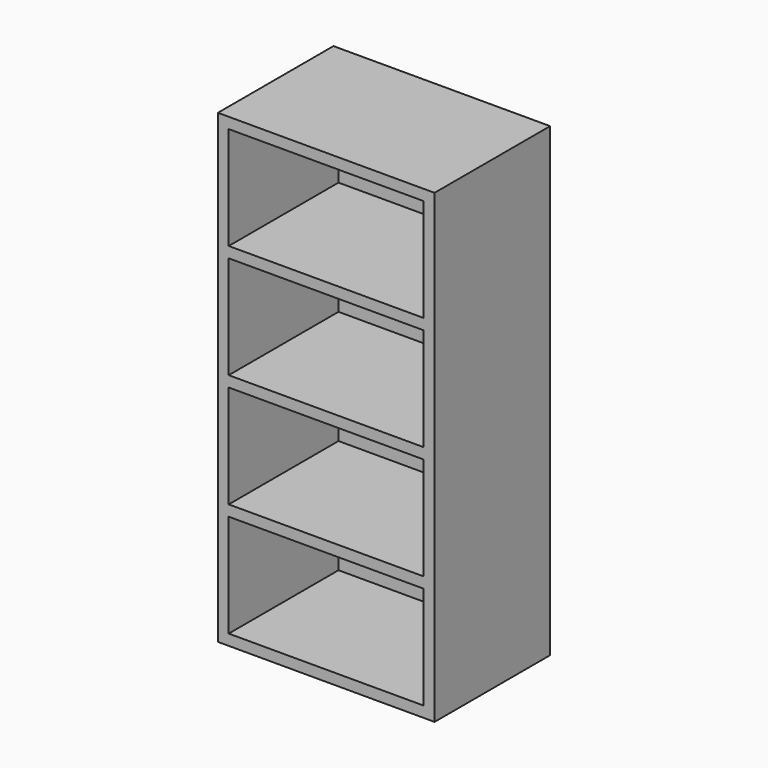
from build123d import *

# Parameters (mm, degrees)
F0_W     = 5.4
F0_H     = 0.3
F1_DEPTH = 4
F0_H_2   = 2.85
F2_DEPTH = 0.2


with BuildPart() as f1:
    # F0 (on Front) → F1 (new body)
    with BuildSketch(Plane.XZ):
        Polygon((-3, 12.9), (-3, 0), (-2.7, 0), (-2.7, 0.3), (-2.7, 3.15), (-2.7, 3.45), (-2.7, 6.3), (-2.7, 6.6), (-2.7, 9.45), (-2.7, 9.75), (-2.7, 12.6), (-2.7, 12.9), align=None)
        Polygon((2.7, 0.3), (2.7, 0), (3, 0), (3, 12.9), (2.7, 12.9), (2.7, 12.6), (2.7, 9.75), (2.7, 9.45), (2.7, 6.6), (2.7, 6.3), (2.7, 3.45), (2.7, 3.15), align=None)
        with Locations((0, 12.75)):
            Rectangle(F0_W, F0_H)
        with Locations((0, 9.6)):
            Rectangle(F0_W, F0_H)
        with Locations((0, 6.45)):
            Rectangle(F0_W, F0_H)
        with Locations((0, 3.3)):
            Rectangle(F0_W, F0_H)
        with Locations((0, 0.15)):
            Rectangle(F0_W, F0_H)
    extrude(amount=F1_DEPTH)

    # F0 (on Front) → F2 (join)
    with BuildSketch(Plane.XZ):
        with Locations((0, 11.175)):
            Rectangle(F0_W, F0_H_2)
        with Locations((0, 4.875)):
            Rectangle(F0_W, F0_H_2)
        with Locations((0, 1.725)):
            Rectangle(F0_W, F0_H_2)
        with Locations((0, 8.025)):
            Rectangle(F0_W, F0_H_2)
    extrude(amount=F2_DEPTH)


solid = f1.part
